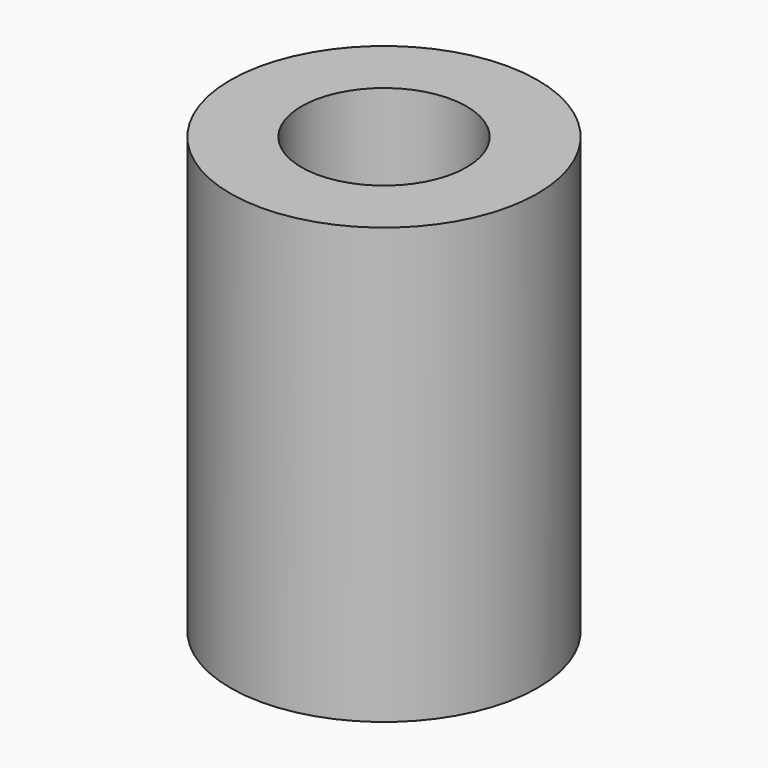
from build123d import *

# Parameters (mm, degrees)
F0_R     = 6
F0_R_2   = 3.225
F1_DEPTH = 13
F2_R     = 6
F2_R_2   = 2
F3_DEPTH = 4


with BuildPart() as f1:
    # F0 (on Top) → F1 (new body)
    with BuildSketch(Plane.XY):
        Circle(F0_R)
        Circle(F0_R_2, mode=Mode.SUBTRACT)
    extrude(amount=F1_DEPTH)

    # F2 (on Top) → F3 (join)
    with BuildSketch(Plane.XY):
        Circle(F2_R)
        Circle(F2_R_2, mode=Mode.SUBTRACT)
    extrude(amount=-F3_DEPTH)


solid = f1.part
